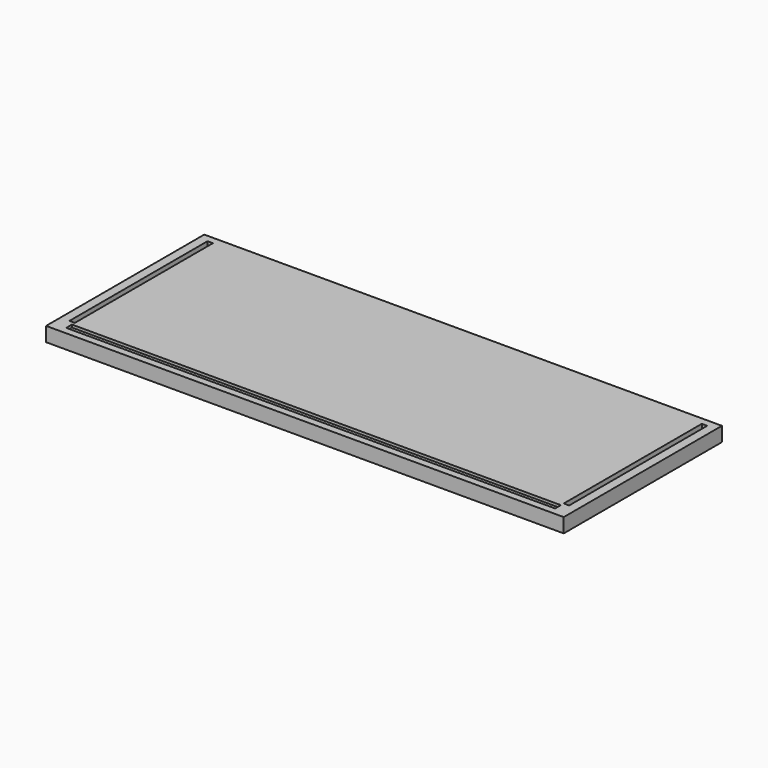
from build123d import *

# Parameters (mm, degrees)
F0_W     = 914.4
F0_H     = 349.25
F1_DEPTH = 12.7
F2_W     = 863.6
F2_H     = 12.7
F3_DEPTH = 4.7625
F4_W     = 9.525
F4_H     = 304.8
F5_DEPTH = 12.7


with BuildPart() as f1:
    # F0 (on Top) → F1 (new body, symmetric)
    with BuildSketch(Plane.XY):
        Rectangle(F0_W, F0_H)
    extrude(amount=F1_DEPTH, both=True)

    # F2 (on face) → F3 (cut)
    with BuildSketch(Plane.XY.offset(12.7)):
        with Locations((0, -155.575)):
            Rectangle(F2_W, F2_H)
    extrude(amount=-F3_DEPTH, mode=Mode.SUBTRACT)

    # F4 (on face) → F5 (cut)
    with BuildSketch(Plane.XY.offset(12.7)):
        with Locations((-436.5625, 9.525)):
            Rectangle(F4_W, F4_H)
        with Locations((436.5625, 9.525)):
            Rectangle(F4_W, F4_H)
    extrude(amount=-F5_DEPTH, mode=Mode.SUBTRACT)


solid = f1.part
